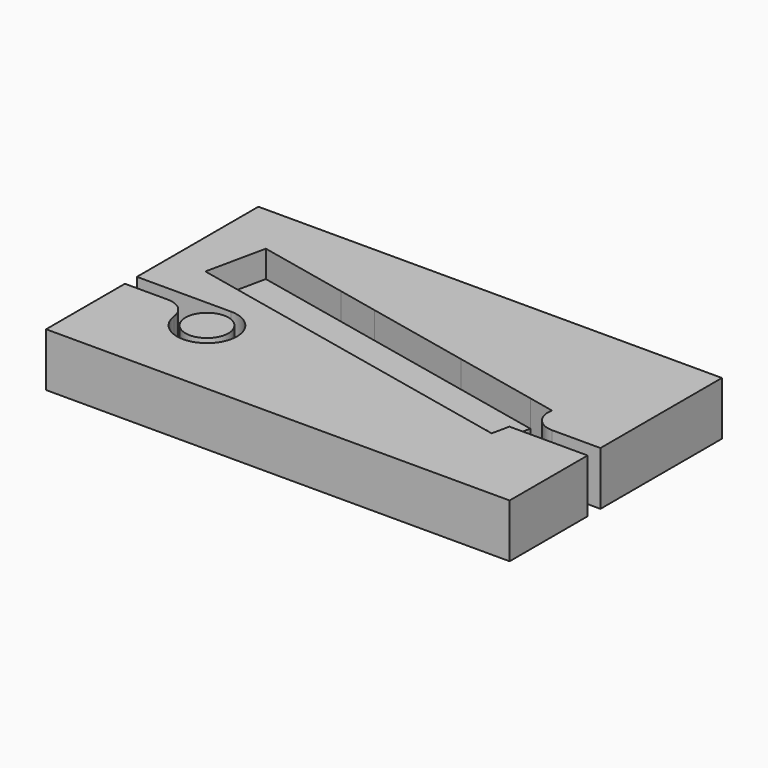
from build123d import *

# Parameters (mm, degrees)
F0_R     = 4
F1_DEPTH = 10
F2_DEPTH = 5
F4_DEPTH = 6


with BuildPart() as f1:
    # F0 (on Top) → F1 (new body)
    with BuildSketch(Plane.XY):
        with BuildLine():
            Line((-47.567533, 0), (-30, 0))
            ThreePointArc((-30, 0), (-25.8, -9.304052), (-35.556078, -6.3))
            ThreePointArc((-35.556078, -6.3), (-36.878953, -3.8), (-39.524705, -2.8))
            Line((-39.524705, -2.8), (-47.567533, -2.8))
            Line((-47.567533, -2.8), (-47.567533, -21.2))
            Line((-47.567533, -21.2), (39, -21.2))
            Line((39, -21.2), (39, -3))
            Line((39, -3), (24.406104, -3))
            Line((24.406104, -3), (23.700472, -6.286902))
            Line((23.700472, -6.286902), (18.811855, -5.237414))
            Line((18.811855, -5.237414), (3.168281, -1.879052))
            Line((3.168281, -1.879052), (-16.386187, 2.3189))
            Line((-16.386187, 2.3189), (-23.914657, 3.935111))
            Line((-23.914657, 3.935111), (-40.829271, 7.566339))
            Line((-40.829271, 7.566339), (-38.440636, 18.692832))
            Line((-38.440636, 18.692832), (-21.526022, 15.061603))
            Line((-21.526022, 15.061603), (-13.997552, 13.445392))
            Line((-13.997552, 13.445392), (5.556916, 9.24744))
            Line((5.556916, 9.24744), (21.20049, 5.889078))
            Line((21.20049, 5.889078), (26.089106, 4.83959))
            ThreePointArc((26.089106, 4.83959), (30.422153, 7.977661), (34, 4))
            ThreePointArc((34, 4), (32.828427, 1.171573), (30, 0))
            Line((30, 0), (39, 0))
            Line((39, 0), (39, 28.358147))
            Line((39, 28.358147), (-41.479608, 28.358147))
            Line((-41.479608, 28.358147), (-47.567533, 0))
        make_face()
        with BuildLine():
            ThreePointArc((26.089106, 4.83959), (26.888862, 1.485876), (30, 0))
            ThreePointArc((30, 0), (32.828427, 1.171573), (34, 4))
            ThreePointArc((34, 4), (30.422153, 7.977661), (26.089106, 4.83959))
        make_face()
        with Locations((-30, -5.6)):
            Circle(F0_R)
        Polygon((-47.567533, 28.358147), (-47.567533, 0), (-41.479608, 28.358147), align=None)
    extrude(amount=F1_DEPTH)

    # F0 (on Top) → F2 (join)
    with BuildSketch(Plane.XY):
        with BuildLine():
            ThreePointArc((-35.556078, -6.3), (-25.8, -9.304052), (-30, 0))
            Line((-30, 0), (-47.567533, 0))
            Line((-47.567533, 0), (-47.567533, -2.8))
            Line((-47.567533, -2.8), (-39.524705, -2.8))
            ThreePointArc((-39.524705, -2.8), (-36.878953, -3.8), (-35.556078, -6.3))
        make_face()
        with Locations((-30, -5.6)):
            Circle(F0_R, mode=Mode.SUBTRACT)
        Polygon((-23.914657, 3.935111), (-21.526022, 15.061603), (-38.440636, 18.692832), (-40.829271, 7.566339), align=None)
        Polygon((18.811855, -5.237414), (21.20049, 5.889078), (5.556916, 9.24744), (-13.997552, 13.445392), (-21.526022, 15.061603), (-23.914657, 3.935111), (-16.386187, 2.3189), (3.168281, -1.879052), align=None)
        Polygon((-17.20203, 11.382039), (-14.562176, 10.815316), (-15.821562, 4.948976), (-18.461415, 5.515699), align=None, mode=Mode.SUBTRACT)
        Polygon((-15.821562, 4.948976), (-14.562176, 10.815316), (-17.20203, 11.382039), (-18.461415, 5.515699), align=None)
    extrude(amount=F2_DEPTH)


with BuildPart() as f4:
    # F3 (on Top) → F4 (new body)
    with BuildSketch(Plane.XY):
        with BuildLine():
            Line((1, 0), (0, 0))
            Line((0, 0), (0, -0.63))
            Line((0, -0.63), (0.259825, -0.63))
            ThreePointArc((0.259825, -0.63), (0.358732, -0.667229), (0.408543, -0.760435))
            ThreePointArc((0.408543, -0.760435), (0.442388, -0.918062), (0.501124, -1.068202))
            ThreePointArc((0.501124, -1.068202), (0.705851, -1.295639), (1, -1.38))
            ThreePointArc((1, -1.38), (1.294149, -1.295639), (1.498876, -1.068202))
            ThreePointArc((1.498876, -1.068202), (1.557612, -0.918062), (1.591457, -0.760435))
            ThreePointArc((1.591457, -0.760435), (1.641268, -0.667229), (1.740175, -0.63))
            Line((1.740175, -0.63), (2, -0.63))
            Line((2, -0.63), (2.259825, -0.63))
            ThreePointArc((2.259825, -0.63), (2.358732, -0.667229), (2.408543, -0.760435))
            ThreePointArc((2.408543, -0.760435), (2.442388, -0.918062), (2.501124, -1.068202))
            ThreePointArc((2.501124, -1.068202), (2.705851, -1.295639), (3, -1.38))
            ThreePointArc((3, -1.38), (3.294149, -1.295639), (3.498876, -1.068202))
            ThreePointArc((3.498876, -1.068202), (3.557612, -0.918062), (3.591457, -0.760435))
            ThreePointArc((3.591457, -0.760435), (3.641268, -0.667229), (3.740175, -0.63))
            Line((3.740175, -0.63), (4, -0.63))
            Line((4, -0.63), (4.259825, -0.63))
            ThreePointArc((4.259825, -0.63), (4.358732, -0.667229), (4.408543, -0.760435))
            ThreePointArc((4.408543, -0.760435), (4.442388, -0.918062), (4.501124, -1.068202))
            ThreePointArc((4.501124, -1.068202), (4.705851, -1.295639), (5, -1.38))
            ThreePointArc((5, -1.38), (5.294149, -1.295639), (5.498876, -1.068202))
            ThreePointArc((5.498876, -1.068202), (5.557612, -0.918062), (5.591457, -0.760435))
            ThreePointArc((5.591457, -0.760435), (5.641268, -0.667229), (5.740175, -0.63))
            Line((5.740175, -0.63), (6, -0.63))
            Line((6, -0.63), (6.259825, -0.63))
            ThreePointArc((6.259825, -0.63), (6.358732, -0.667229), (6.408543, -0.760435))
            ThreePointArc((6.408543, -0.760435), (6.442388, -0.918062), (6.501124, -1.068202))
            ThreePointArc((6.501124, -1.068202), (6.705851, -1.295639), (7, -1.38))
            ThreePointArc((7, -1.38), (7.294149, -1.295639), (7.498876, -1.068202))
            ThreePointArc((7.498876, -1.068202), (7.557612, -0.918062), (7.591457, -0.760435))
            ThreePointArc((7.591457, -0.760435), (7.641268, -0.667229), (7.740175, -0.63))
            Line((7.740175, -0.63), (8, -0.63))
            Line((8, -0.63), (8.259825, -0.63))
            ThreePointArc((8.259825, -0.63), (8.358732, -0.667229), (8.408543, -0.760435))
            ThreePointArc((8.408543, -0.760435), (8.442388, -0.918062), (8.501124, -1.068202))
            ThreePointArc((8.501124, -1.068202), (8.705851, -1.295639), (9, -1.38))
            ThreePointArc((9, -1.38), (9.294149, -1.295639), (9.498876, -1.068202))
            ThreePointArc((9.498876, -1.068202), (9.557612, -0.918062), (9.591457, -0.760435))
            ThreePointArc((9.591457, -0.760435), (9.641268, -0.667229), (9.740175, -0.63))
            Line((9.740175, -0.63), (10, -0.63))
            Line((10, -0.63), (10.259825, -0.63))
            ThreePointArc((10.259825, -0.63), (10.358732, -0.667229), (10.408543, -0.760435))
            ThreePointArc((10.408543, -0.760435), (10.442388, -0.918062), (10.501124, -1.068202))
            ThreePointArc((10.501124, -1.068202), (10.705851, -1.295639), (11, -1.38))
            ThreePointArc((11, -1.38), (11.294149, -1.295639), (11.498876, -1.068202))
            ThreePointArc((11.498876, -1.068202), (11.557612, -0.918062), (11.591457, -0.760435))
            ThreePointArc((11.591457, -0.760435), (11.641268, -0.667229), (11.740175, -0.63))
            Line((11.740175, -0.63), (12, -0.63))
            Line((12, -0.63), (12.259825, -0.63))
            ThreePointArc((12.259825, -0.63), (12.358732, -0.667229), (12.408543, -0.760435))
            ThreePointArc((12.408543, -0.760435), (12.442388, -0.918062), (12.501124, -1.068202))
            ThreePointArc((12.501124, -1.068202), (12.705851, -1.295639), (13, -1.38))
            ThreePointArc((13, -1.38), (13.294149, -1.295639), (13.498876, -1.068202))
            ThreePointArc((13.498876, -1.068202), (13.557612, -0.918062), (13.591457, -0.760435))
            ThreePointArc((13.591457, -0.760435), (13.641268, -0.667229), (13.740175, -0.63))
            Line((13.740175, -0.63), (14, -0.63))
            Line((14, -0.63), (14.259825, -0.63))
            ThreePointArc((14.259825, -0.63), (14.358732, -0.667229), (14.408543, -0.760435))
            ThreePointArc((14.408543, -0.760435), (14.442388, -0.918062), (14.501124, -1.068202))
            ThreePointArc((14.501124, -1.068202), (14.705851, -1.295639), (15, -1.38))
            ThreePointArc((15, -1.38), (15.294149, -1.295639), (15.498876, -1.068202))
            ThreePointArc((15.498876, -1.068202), (15.557612, -0.918062), (15.591457, -0.760435))
            ThreePointArc((15.591457, -0.760435), (15.641268, -0.667229), (15.740175, -0.63))
            Line((15.740175, -0.63), (16, -0.63))
            Line((16, -0.63), (16.259825, -0.63))
            ThreePointArc((16.259825, -0.63), (16.358732, -0.667229), (16.408543, -0.760435))
            ThreePointArc((16.408543, -0.760435), (16.442388, -0.918062), (16.501124, -1.068202))
            ThreePointArc((16.501124, -1.068202), (16.705851, -1.295639), (17, -1.38))
            ThreePointArc((17, -1.38), (17.294149, -1.295639), (17.498876, -1.068202))
            ThreePointArc((17.498876, -1.068202), (17.557612, -0.918062), (17.591457, -0.760435))
            ThreePointArc((17.591457, -0.760435), (17.641268, -0.667229), (17.740175, -0.63))
            Line((17.740175, -0.63), (18, -0.63))
            Line((18, -0.63), (18, 0))
            Line((18, 0), (17, 0))
            Line((17, 0), (15, 0))
            Line((15, 0), (13, 0))
            Line((13, 0), (11, 0))
            Line((11, 0), (9, 0))
            Line((9, 0), (7, 0))
            Line((7, 0), (5, 0))
            Line((5, 0), (3, 0))
            Line((3, 0), (1, 0))
        make_face()
    extrude(amount=F4_DEPTH)


solid = Compound([f1.part, f4.part])
